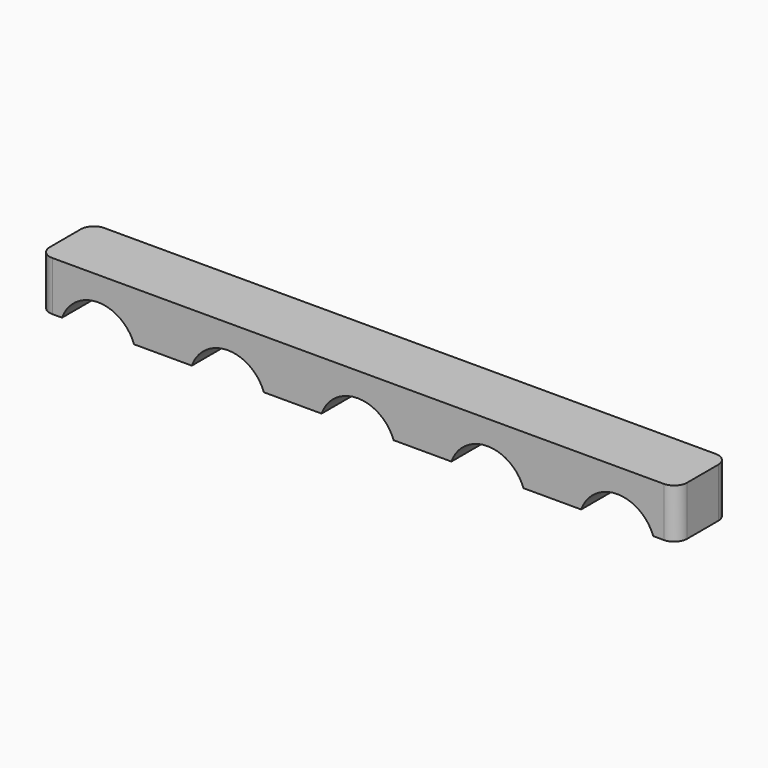
from build123d import *

# Parameters (mm, degrees)
F1_DEPTH = 5
F2_R     = 1


with BuildPart() as f1:
    # F0 (on Front) → F1 (new body)
    with BuildSketch(Plane.XZ):
        with BuildLine():
            ThreePointArc((-28.380626, 23.266603), (-25.605288, 25.216603), (-22.82995, 23.266603))
            Line((-22.82995, 23.266603), (-18.380626, 23.266603))
            ThreePointArc((-18.380626, 23.266603), (-15.605288, 25.216603), (-12.82995, 23.266603))
            Line((-12.82995, 23.266603), (-8.380626, 23.266603))
            ThreePointArc((-8.380626, 23.266603), (-5.605288, 25.216603), (-2.82995, 23.266603))
            Line((-2.82995, 23.266603), (1.619374, 23.266603))
            ThreePointArc((1.619374, 23.266603), (4.394712, 25.216603), (7.17005, 23.266603))
            Line((7.17005, 23.266603), (11.619374, 23.266603))
            ThreePointArc((11.619374, 23.266603), (14.394712, 25.216603), (17.17005, 23.266603))
            Line((17.17005, 23.266603), (18.983331, 23.266603))
            Line((18.983331, 23.266603), (18.983331, 27.076603))
            Line((18.983331, 27.076603), (-30.129164, 27.076603))
            Line((-30.129164, 27.076603), (-30.129164, 23.266603))
            Line((-30.129164, 23.266603), (-28.380626, 23.266603))
        make_face()
    extrude(amount=F1_DEPTH)

    # F2
    f2_edges = [f1.edges().sort_by_distance(p)[0] for p in [
        (-30.129164, -5, 25.171603),
        (-30.129164, 0, 25.171603),
        (18.983331, -5, 25.171603),
        (18.983331, 0, 25.171603),
    ]]
    fillet(f2_edges, radius=F2_R)


solid = f1.part
